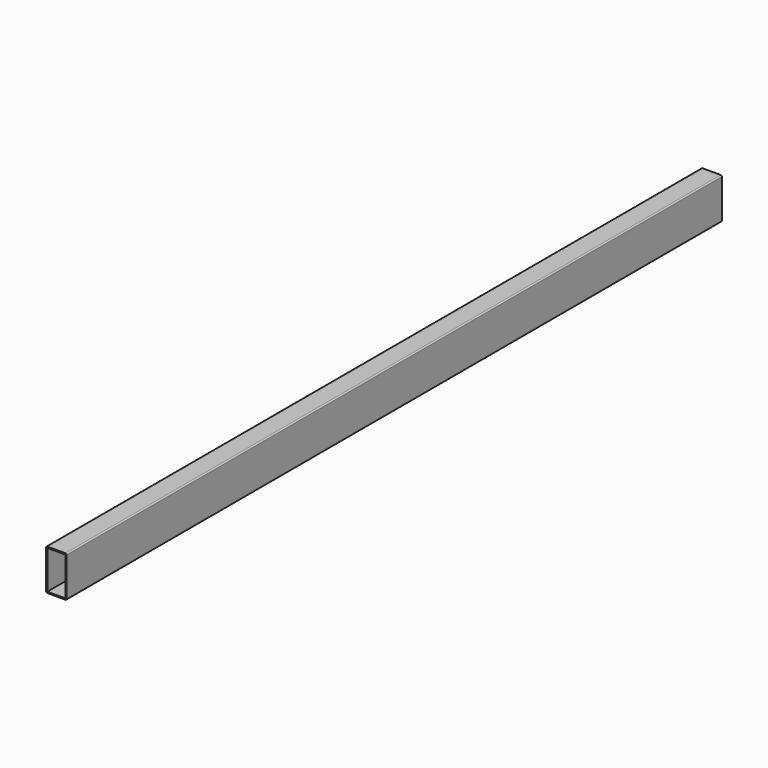
from build123d import *

# Parameters (mm, degrees)
F0_W     = 22.352
F0_H     = 47.752
F1_DEPTH = 1016


with BuildPart() as f1:
    # F0 (on Front) → F1 (new body)
    with BuildSketch(Plane.XZ):
        with BuildLine():
            ThreePointArc((0, 1.524), (0.446369, 0.446369), (1.524, 0))
            Line((1.524, 0), (23.876, 0))
            ThreePointArc((23.876, 0), (24.953631, 0.446369), (25.4, 1.524))
            Line((25.4, 1.524), (25.4, 49.276))
            ThreePointArc((25.4, 49.276), (24.953631, 50.353631), (23.876, 50.8))
            Line((23.876, 50.8), (1.524, 50.8))
            ThreePointArc((1.524, 50.8), (0.446369, 50.353631), (0, 49.276))
            Line((0, 49.276), (0, 1.524))
        make_face()
        with Locations((12.7, 25.4)):
            Rectangle(F0_W, F0_H, mode=Mode.SUBTRACT)
    extrude(amount=F1_DEPTH)


solid = f1.part
